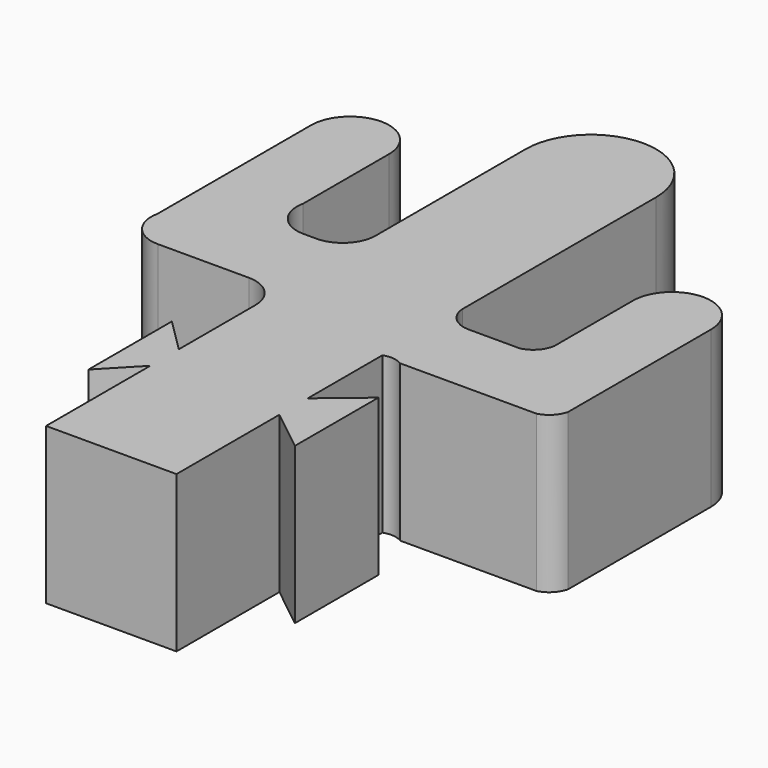
from build123d import *

# Parameters (mm, degrees)
F1_DEPTH = 25.4


with BuildPart() as f1:
    # F0 (on Top) → F1 (new body)
    with BuildSketch(Plane.XY):
        with BuildLine():
            ThreePointArc((0, 35.842103), (-10.608111, 46.450214), (-21.216221, 35.842103))
            Line((-21.216221, 35.842103), (-21.216221, 5.362103))
            ThreePointArc((-21.216221, 5.362103), (-22.786745, 1.570524), (-26.578324, 0))
            Line((-26.578324, 0), (-28.674269, 0))
            ThreePointArc((-28.674269, 0), (-32.845879, 1.993153), (-33.916221, 6.490859))
            Line((-33.916221, 6.490859), (-33.916221, 23.954123))
            ThreePointArc((-33.916221, 23.954123), (-40.266221, 30.304123), (-46.616221, 23.954123))
            Line((-46.616221, 23.954123), (-46.616221, -7.26244))
            ThreePointArc((-46.616221, -7.26244), (-45.545879, -11.760145), (-41.374269, -13.753299))
            Line((-41.374269, -13.753299), (-26.575275, -13.753299))
            ThreePointArc((-26.575275, -13.753299), (-22.720302, -15.388294), (-21.216221, -19.296205))
            Line((-21.216221, -19.296205), (-21.216221, -34.688838))
            Line((-21.216221, -34.688838), (-26.702685, -29.233515))
            Line((-26.702685, -29.233515), (-26.702685, -46.205629))
            Line((-26.702685, -46.205629), (-21.216221, -40.486914))
            Line((-21.216221, -40.486914), (-21.216221, -61.677624))
            Line((-21.216221, -61.677624), (0, -61.677624))
            Line((0, -61.677624), (0, -40.750302))
            Line((0, -40.750302), (6.886977, -46.205629))
            Line((6.886977, -46.205629), (6.886977, -29.233515))
            Line((6.886977, -29.233515), (0, -34.991909))
            Line((0, -34.991909), (0, -19.822981))
            ThreePointArc((0, -19.822981), (1.612908, -19.608437), (3.154185, -20.129943))
            Line((3.154185, -20.129943), (23.295796, -20.129943))
            Line((23.295796, -20.129943), (25.332921, -20.129943))
            ThreePointArc((25.332921, -20.129943), (27.136875, -19.087554), (28.166387, -17.27622))
            Line((28.166387, -17.27622), (28.166387, 11.807952))
            ThreePointArc((28.166387, 11.807952), (21.816387, 18.157952), (15.466387, 11.807952))
            Line((15.466387, 11.807952), (15.466387, -4.194242))
            ThreePointArc((15.466387, -4.194242), (14.46354, -6.26203), (12.484289, -7.429943))
            Line((12.484289, -7.429943), (3.989205, -7.429943))
            ThreePointArc((3.989205, -7.429943), (1.240735, -6.242573), (0, -3.517777))
            Line((0, -3.517777), (0, 35.842103))
        make_face()
    extrude(amount=F1_DEPTH)


solid = f1.part
